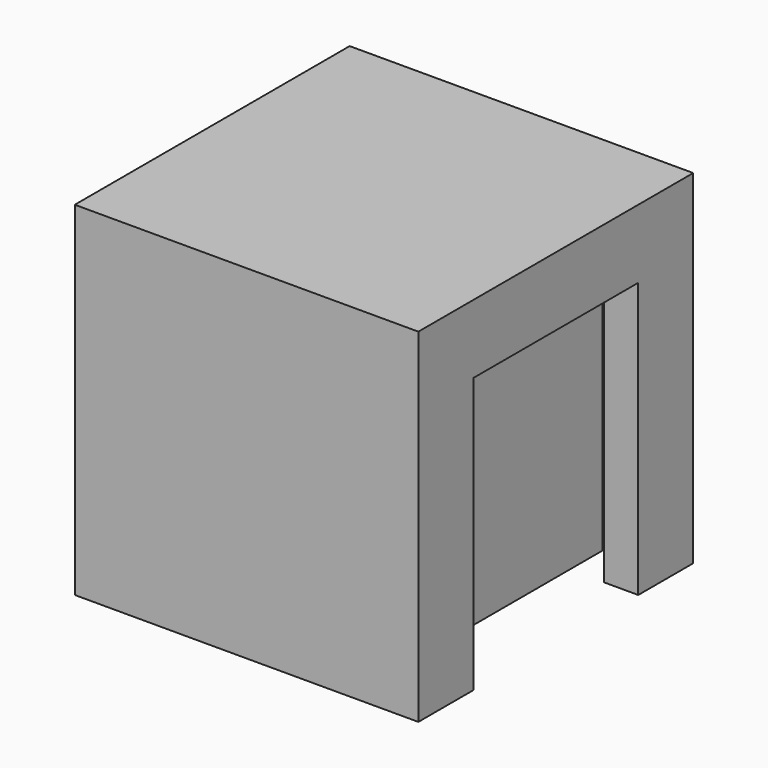
from build123d import *

# Parameters (mm, degrees)
F0_W     = 25.4
F0_H     = 25.4
F1_DEPTH = 25.4
F3_DEPTH = 23.368
F2_W     = 2.54
F2_H     = 15.24
F4_DEPTH = 20.32


with BuildPart() as f1:
    # F0 (on Top) → F1 (new body)
    with BuildSketch(Plane.XY):
        Rectangle(F0_W, F0_H)
    extrude(amount=F1_DEPTH)

    # F2 (on face) → F3 (cut)
    with BuildSketch(Plane(origin=(0, 0, 0), x_dir=(1, 0, 0), z_dir=(0, 0, -1))):
        Polygon((10.16, -7.62), (10.16, 7.62), (10.16, 10.668), (7.62, 10.668), (7.62, -10.668), (10.16, -10.668), align=None)
    extrude(amount=-F3_DEPTH, mode=Mode.SUBTRACT)

    # F2 (on face) → F4 (cut)
    with BuildSketch(Plane(origin=(0, 0, 0), x_dir=(1, 0, 0), z_dir=(0, 0, -1))):
        with Locations((11.43, 0)):
            Rectangle(F2_W, F2_H)
    extrude(amount=-F4_DEPTH, mode=Mode.SUBTRACT)


solid = f1.part
